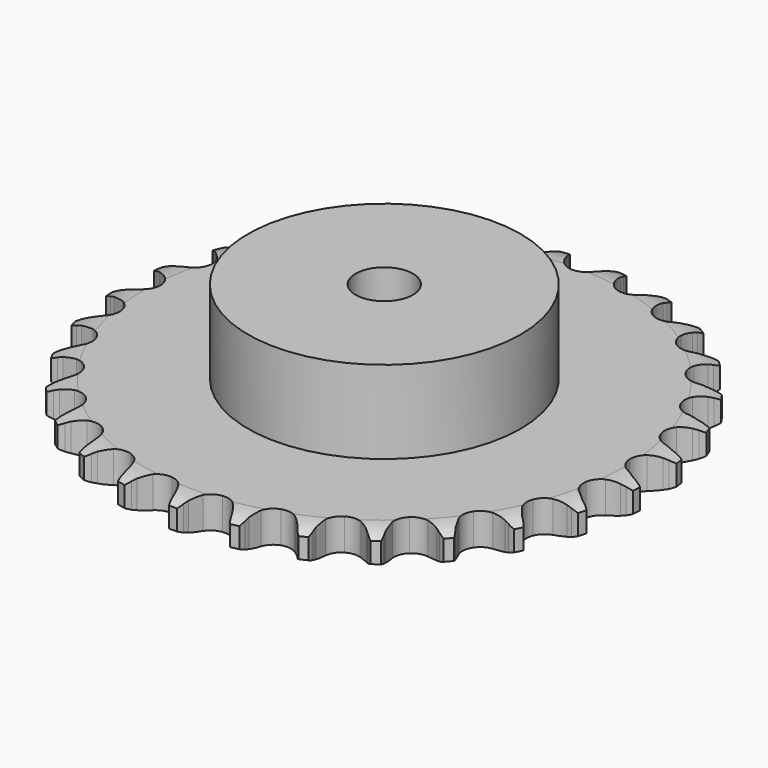
from build123d import *

# Parameters (mm, degrees)
PAD_DEPTH         = 11.1
SKETCH001_R       = 47.5
PAD001_DEPTH      = 40
SKETCH002_R       = 10
POCKET_DEPTH      = 0.001
POCKET_DEPTH_BACK = 40.001


with BuildPart() as part:
    # Sprocket → Pad (new body)
    with BuildSketch(Plane.XY):
        with BuildLine():
            ThreePointArc((-10.17655, 93.571831), (-8.665121, 91.838888), (-7.596306, 89.802925))
            Line((-7.596306, 89.802925), (-7.007926, 88.270144))
            ThreePointArc((-7.007926, 88.270144), (-6.074148, 86.269221), (-4.869867, 84.418452))
            ThreePointArc((-4.869867, 84.418452), (-2.71998, 82.633691), (0, 81.994084))
            ThreePointArc((0, 81.994084), (2.71998, 82.633691), (4.869867, 84.418452))
            ThreePointArc((4.869867, 84.418452), (6.074148, 86.269221), (7.007926, 88.270144))
            Line((7.007926, 88.270144), (7.596306, 89.802925))
            ThreePointArc((7.596306, 89.802925), (8.665121, 91.838888), (10.17655, 93.571831))
            ThreePointArc((10.17655, 93.571831), (11.280111, 91.554491), (11.886266, 89.336364))
            Line((11.886266, 89.336364), (12.131387, 87.712934))
            ThreePointArc((12.131387, 87.712934), (12.613195, 85.558057), (13.391459, 83.491673))
            ThreePointArc((13.391459, 83.491673), (15.107412, 81.286476), (17.626304, 80.077108))
            ThreePointArc((17.626304, 80.077108), (20.420189, 80.117046), (22.903484, 81.397918))
            Line((22.903484, 81.397918), (25.819557, 84.69994))
            ThreePointArc((25.819557, 84.69994), (26.253761, 85.396953), (26.723683, 86.070402))
            ThreePointArc((26.723683, 86.070402), (28.205182, 87.829001), (30.053806, 89.196517))
            ThreePointArc((30.053806, 89.196517), (30.697897, 86.989107), (30.813049, 84.692534))
            Line((30.813049, 84.692534), (30.70345, 83.054365))
            ThreePointArc((30.70345, 83.054365), (30.710759, 80.846293), (31.026616, 78.660916))
            ThreePointArc((31.026616, 78.660916), (32.228399, 76.138397), (34.428422, 74.415815))
            ThreePointArc((34.428422, 74.415815), (37.165573, 73.854216), (39.86616, 74.571308))
            Line((39.86616, 74.571308), (43.423893, 77.169261))
            ThreePointArc((43.423893, 77.169261), (43.997783, 77.756637), (44.60149, 78.313322))
            ThreePointArc((44.60149, 78.313322), (46.426399, 79.712327), (48.525779, 80.650472))
            ThreePointArc((48.525779, 80.650472), (48.680284, 78.35621), (48.299048, 76.088575))
            Line((48.299048, 76.088575), (47.839853, 74.512266))
            ThreePointArc((47.839853, 74.512266), (47.372321, 72.354246), (47.211003, 70.152063))
            ThreePointArc((47.211003, 70.152063), (47.842422, 67.43017), (49.620706, 65.274922))
            ThreePointArc((49.620706, 65.274922), (52.173136, 64.138046), (54.964738, 64.257826))
            Line((54.964738, 64.257826), (58.997777, 66.030233))
            ThreePointArc((58.997777, 66.030233), (59.684518, 66.480508), (60.393782, 66.894398))
            ThreePointArc((60.393782, 66.894398), (62.47677, 67.868394), (64.72874, 68.333301))
            ThreePointArc((64.72874, 68.333301), (64.386435, 66.059463), (63.526638, 63.926799))
            Line((63.526638, 63.926799), (62.739319, 62.486056))
            ThreePointArc((62.739319, 62.486056), (61.818807, 60.478995), (61.187856, 58.362976))
            ThreePointArc((61.187856, 58.362976), (61.219386, 55.568984), (62.49278, 53.081846))
            ThreePointArc((62.49278, 53.081846), (64.741141, 51.422852), (67.493226, 50.93972))
            Line((67.493226, 50.93972), (71.81299, 51.803705))
            ThreePointArc((71.81299, 51.803705), (72.580471, 52.095823), (73.362127, 52.347566))
            ThreePointArc((73.362127, 52.347566), (75.605796, 52.85101), (77.905058, 52.82094))
            ThreePointArc((77.905058, 52.82094), (77.081948, 50.673849), (75.783792, 48.775876))
            Line((75.783792, 48.775876), (74.705164, 47.538068))
            ThreePointArc((74.705164, 47.538068), (73.374714, 45.775814), (72.303632, 43.844902))
            ThreePointArc((72.303632, 43.844902), (71.733799, 41.109453), (72.442761, 38.406721))
            ThreePointArc((72.442761, 38.406721), (74.281923, 36.303183), (76.865806, 35.239729))
            Line((76.865806, 35.239729), (81.270307, 35.154893))
            ThreePointArc((81.270307, 35.154893), (82.082642, 35.275196), (82.90014, 35.35302))
            ThreePointArc((82.90014, 35.35302), (85.19958, 35.362371), (87.438622, 34.838731))
            ThreePointArc((87.438622, 34.838731), (86.173194, 32.918783), (84.497381, 31.344248))
            Line((84.497381, 31.344248), (83.177878, 30.367252))
            ThreePointArc((83.177878, 30.367252), (81.499701, 28.932206), (80.038571, 27.276689))
            ThreePointArc((80.038571, 27.276689), (78.89402, 24.727691), (79.005399, 21.935741))
            ThreePointArc((79.005399, 21.935741), (80.349364, 19.486017), (82.644227, 17.891967))
            Line((82.644227, 17.891967), (86.927516, 16.862277))
            ThreePointArc((86.927516, 16.862277), (87.74672, 16.80514), (88.561835, 16.705407))
            ThreePointArc((88.561835, 16.705407), (90.809525, 16.220228), (92.883653, 15.227502))
            ThreePointArc((92.883653, 15.227502), (91.235078, 13.62447), (89.259966, 12.446998))
            Line((89.259966, 12.446998), (87.761287, 11.776498))
            ThreePointArc((87.761287, 11.776498), (85.813852, 10.735761), (84.030996, 9.433048))
            ThreePointArc((84.030996, 9.433048), (82.365244, 7.189689), (81.873833, 4.43907))
            ThreePointArc((81.873833, 4.43907), (82.659758, 1.757707), (84.558295, -0.292403))
            Line((84.558295, -0.292403), (88.52009, -2.218799))
            ThreePointArc((88.52009, -2.218799), (89.307858, -2.450706), (90.082477, -2.723333))
            ThreePointArc((90.082477, -2.723333), (92.173319, -3.680356), (93.985548, -5.095748))
            ThreePointArc((93.985548, -5.095748), (92.030911, -6.306907), (89.848854, -7.03226))
            Line((89.848854, -7.03226), (88.241076, -7.364912))
            ThreePointArc((88.241076, -7.364912), (86.115443, -7.962677), (84.094224, -8.851671))
            ThreePointArc((84.094224, -8.851671), (81.985161, -10.684495), (80.913937, -13.265167))
            ThreePointArc((80.913937, -13.265167), (81.105074, -16.052792), (82.518511, -18.4631))
            Line((82.518511, -18.4631), (85.973563, -21.196128))
            ThreePointArc((85.973563, -21.196128), (86.693061, -21.591959), (87.390963, -22.024733))
            ThreePointArc((87.390963, -22.024733), (89.22719, -23.40885), (90.692782, -25.180727))
            ThreePointArc((90.692782, -25.180727), (88.523481, -25.943381), (86.23651, -26.182698))
            Line((86.23651, -26.182698), (84.59481, -26.161948))
            ThreePointArc((84.59481, -26.161948), (82.390372, -26.288789), (80.225301, -26.722497))
            ThreePointArc((80.225301, -26.722497), (77.771543, -28.059084), (76.170595, -30.349139))
            ThreePointArc((76.170595, -30.349139), (75.758006, -33.11268), (76.620253, -35.770484))
            Line((76.620253, -35.770484), (79.407008, -39.182349))
            ThreePointArc((79.407008, -39.182349), (80.024592, -39.723597), (80.613144, -40.296281))
            ThreePointArc((80.613144, -40.296281), (82.108897, -42.042773), (83.159324, -44.088283))
            ThreePointArc((83.159324, -44.088283), (80.876791, -44.366771), (78.591842, -44.108861))
            Line((78.591842, -44.108861), (76.992985, -43.735679))
            ThreePointArc((76.992985, -43.735679), (74.812818, -43.385666), (72.605131, -43.343808))
            ThreePointArc((72.605131, -43.343808), (69.921414, -44.121661), (67.865601, -46.014019))
            ThreePointArc((67.865601, -46.014019), (66.868579, -48.624256), (67.139317, -51.405279))
            Line((67.139317, -51.405279), (69.127469, -55.336447))
            ThreePointArc((69.127469, -55.336447), (69.614263, -55.997803), (70.065945, -56.683619))
            ThreePointArc((70.065945, -56.683619), (71.151283, -58.710822), (71.737427, -60.93432))
            ThreePointArc((71.737427, -60.93432), (69.448393, -60.715619), (67.272307, -59.972543))
            Line((67.272307, -59.972543), (65.791053, -59.264379))
            ThreePointArc((65.791053, -59.264379), (63.7371, -58.453878), (61.590026, -57.938411))
            ThreePointArc((61.590026, -57.938411), (58.801838, -58.121158), (56.387287, -59.527335))
            ThreePointArc((56.387287, -59.527335), (54.852451, -61.862216), (54.519022, -64.636421))
            Line((54.519022, -64.636421), (55.615607, -68.903074))
            ThreePointArc((55.615607, -68.903074), (55.948848, -69.653614), (56.242539, -70.420495))
            ThreePointArc((56.242539, -70.420495), (56.866715, -72.633618), (56.961168, -74.931136))
            ThreePointArc((56.961168, -74.931136), (54.772664, -74.225474), (52.807194, -73.031976))
            Line((52.807194, -73.031976), (51.512805, -72.021943))
            ThreePointArc((51.512805, -72.021943), (49.681107, -70.788851), (47.69504, -69.823878))
            ThreePointArc((47.69504, -69.823878), (44.932753, -69.402975), (42.272366, -70.257219))
            ThreePointArc((42.272366, -70.257219), (40.271483, -72.207567), (39.349478, -74.845236))
            Line((39.349478, -74.845236), (39.503221, -79.24787))
            ThreePointArc((39.503221, -79.24787), (39.667327, -80.0525), (39.789295, -80.864586))
            ThreePointArc((39.789295, -80.864586), (39.923122, -83.160147), (39.521469, -85.424255))
            ThreePointArc((39.521469, -85.424255), (37.535827, -84.264627), (35.872875, -82.676515))
            Line((35.872875, -82.676515), (34.825876, -81.41184))
            ThreePointArc((34.825876, -81.41184), (33.30208, -79.813816), (31.569886, -78.444458))
            ThreePointArc((31.569886, -78.444458), (28.962662, -77.439585), (26.180837, -77.701954))
            ThreePointArc((26.180837, -77.701954), (23.807466, -79.176573), (22.339996, -81.55437))
            Line((22.339996, -81.55437), (21.543708, -85.887124))
            ThreePointArc((21.543708, -85.887124), (21.531005, -86.70822), (21.475548, -87.527539))
            ThreePointArc((21.475548, -87.527539), (21.112768, -89.7982), (20.233789, -91.923031))
            ThreePointArc((20.233789, -91.923031), (18.543856, -90.36366), (17.26118, -88.455192))
            Line((17.26118, -88.455192), (16.510527, -86.995011))
            ThreePointArc((16.510527, -86.995011), (15.365884, -85.106776), (13.96856, -83.397062))
            ThreePointArc((13.96856, -83.397062), (11.638309, -81.855207), (8.86512, -81.513431))
            ThreePointArc((8.86512, -81.513431), (6.230238, -82.44337), (4.28592, -84.450113))
            Line((4.28592, -84.450113), (2.576836, -88.510391))
            ThreePointArc((2.576836, -88.510391), (2.387918, -89.309559), (2.157628, -90.097802))
            ThreePointArc((2.157628, -90.097802), (1.315204, -92.237389), (0, -94.123588))
            ThreePointArc((0, -94.123588), (-1.315204, -92.237389), (-2.157628, -90.097802))
            Line((-2.157628, -90.097802), (-2.576836, -88.510391))
            ThreePointArc((-2.576836, -88.510391), (-3.288803, -86.420238), (-4.28592, -84.450113))
            ThreePointArc((-4.28592, -84.450113), (-6.230238, -82.44337), (-8.86512, -81.513431))
            ThreePointArc((-8.86512, -81.513431), (-11.638309, -81.855207), (-13.96856, -83.397062))
            Line((-13.96856, -83.397062), (-16.510527, -86.995011))
            ThreePointArc((-16.510527, -86.995011), (-16.866825, -87.734883), (-17.26118, -88.455192))
            ThreePointArc((-17.26118, -88.455192), (-18.543856, -90.36366), (-20.233789, -91.923031))
            ThreePointArc((-20.233789, -91.923031), (-21.112768, -89.7982), (-21.475548, -87.527539))
            Line((-21.475548, -87.527539), (-21.543708, -85.887124))
            ThreePointArc((-21.543708, -85.887124), (-21.789709, -83.692786), (-22.339996, -81.55437))
            ThreePointArc((-22.339996, -81.55437), (-23.807466, -79.176573), (-26.180837, -77.701954))
            ThreePointArc((-26.180837, -77.701954), (-28.962662, -77.439585), (-31.569886, -78.444458))
            Line((-31.569886, -78.444458), (-34.825876, -81.41184))
            ThreePointArc((-34.825876, -81.41184), (-35.332895, -82.057822), (-35.872875, -82.676515))
            ThreePointArc((-35.872875, -82.676515), (-37.535827, -84.264627), (-39.521469, -85.424255))
            ThreePointArc((-39.521469, -85.424255), (-39.923122, -83.160147), (-39.789295, -80.864586))
            Line((-39.789295, -80.864586), (-39.503221, -79.24787))
            ThreePointArc((-39.503221, -79.24787), (-39.271753, -77.051951), (-39.349478, -74.845236))
            ThreePointArc((-39.349478, -74.845236), (-40.271483, -72.207567), (-42.272366, -70.257219))
            ThreePointArc((-42.272366, -70.257219), (-44.932753, -69.402975), (-47.69504, -69.823878))
            Line((-47.69504, -69.823878), (-51.512805, -72.021943))
            ThreePointArc((-51.512805, -72.021943), (-52.146837, -72.543827), (-52.807194, -73.031976))
            ThreePointArc((-52.807194, -73.031976), (-54.772664, -74.225474), (-56.961168, -74.931136))
            ThreePointArc((-56.961168, -74.931136), (-56.866715, -72.633618), (-56.242539, -70.420495))
            Line((-56.242539, -70.420495), (-55.615607, -68.903074))
            ThreePointArc((-55.615607, -68.903074), (-54.917493, -66.808254), (-54.519022, -64.636421))
            ThreePointArc((-54.519022, -64.636421), (-54.852451, -61.862216), (-56.387287, -59.527335))
            ThreePointArc((-56.387287, -59.527335), (-58.801838, -58.121158), (-61.590026, -57.938411))
            Line((-61.590026, -57.938411), (-65.791053, -59.264379))
            ThreePointArc((-65.791053, -59.264379), (-66.522452, -59.637764), (-67.272307, -59.972543))
            ThreePointArc((-67.272307, -59.972543), (-69.448393, -60.715619), (-71.737427, -60.93432))
            ThreePointArc((-71.737427, -60.93432), (-71.151283, -58.710822), (-70.065945, -56.683619))
            Line((-70.065945, -56.683619), (-69.127469, -55.336447))
            ThreePointArc((-69.127469, -55.336447), (-67.995352, -53.440676), (-67.139317, -51.405279))
            ThreePointArc((-67.139317, -51.405279), (-66.868579, -48.624256), (-67.865601, -46.014019))
            ThreePointArc((-67.865601, -46.014019), (-69.921414, -44.121661), (-72.605131, -43.343808))
            Line((-72.605131, -43.343808), (-76.992985, -43.735679))
            ThreePointArc((-76.992985, -43.735679), (-77.78755, -43.943106), (-78.591842, -44.108861))
            ThreePointArc((-78.591842, -44.108861), (-80.876791, -44.366771), (-83.159324, -44.088283))
            ThreePointArc((-83.159324, -44.088283), (-82.108897, -42.042773), (-80.613144, -40.296281))
            Line((-80.613144, -40.296281), (-79.407008, -39.182349))
            ThreePointArc((-79.407008, -39.182349), (-77.893824, -37.574272), (-76.620253, -35.770484))
            ThreePointArc((-76.620253, -35.770484), (-75.758006, -33.11268), (-76.170595, -30.349139))
            ThreePointArc((-76.170595, -30.349139), (-77.771543, -28.059084), (-80.225301, -26.722497))
            Line((-80.225301, -26.722497), (-84.59481, -26.161948))
            ThreePointArc((-84.59481, -26.161948), (-85.415389, -26.193717), (-86.23651, -26.182698))
            ThreePointArc((-86.23651, -26.182698), (-88.523481, -25.943381), (-90.692782, -25.180727))
            ThreePointArc((-90.692782, -25.180727), (-89.22719, -23.40885), (-87.390963, -22.024733))
            Line((-87.390963, -22.024733), (-85.973563, -21.196128))
            ThreePointArc((-85.973563, -21.196128), (-84.150068, -19.950937), (-82.518511, -18.4631))
            ThreePointArc((-82.518511, -18.4631), (-81.105074, -16.052792), (-80.913937, -13.265167))
            ThreePointArc((-80.913937, -13.265167), (-81.985161, -10.684495), (-84.094224, -8.851671))
            Line((-84.094224, -8.851671), (-88.241076, -7.364912))
            ThreePointArc((-88.241076, -7.364912), (-89.0493, -7.219538), (-89.848854, -7.03226))
            ThreePointArc((-89.848854, -7.03226), (-92.030911, -6.306907), (-93.985548, -5.095748))
            ThreePointArc((-93.985548, -5.095748), (-92.173319, -3.680356), (-90.082477, -2.723333))
            Line((-90.082477, -2.723333), (-88.52009, -2.218799))
            ThreePointArc((-88.52009, -2.218799), (-86.471548, -1.394718), (-84.558295, -0.292403))
            ThreePointArc((-84.558295, -0.292403), (-82.659758, 1.757707), (-81.873833, 4.43907))
            ThreePointArc((-81.873833, 4.43907), (-82.365244, 7.189689), (-84.030996, 9.433048))
            Line((-84.030996, 9.433048), (-87.761287, 11.776498))
            ThreePointArc((-87.761287, 11.776498), (-88.519364, 12.092218), (-89.259966, 12.446998))
            ThreePointArc((-89.259966, 12.446998), (-91.235078, 13.62447), (-92.883653, 15.227502))
            ThreePointArc((-92.883653, 15.227502), (-90.809525, 16.220228), (-88.561835, 16.705407))
            Line((-88.561835, 16.705407), (-86.927516, 16.862277))
            ThreePointArc((-86.927516, 16.862277), (-84.749714, 17.226716), (-82.644227, 17.891967))
            ThreePointArc((-82.644227, 17.891967), (-80.349364, 19.486017), (-79.005399, 21.935741))
            ThreePointArc((-79.005399, 21.935741), (-78.89402, 24.727691), (-80.038571, 27.276689))
            Line((-80.038571, 27.276689), (-83.177878, 30.367252))
            ThreePointArc((-83.177878, 30.367252), (-83.850361, 30.838555), (-84.497381, 31.344248))
            ThreePointArc((-84.497381, 31.344248), (-86.173194, 32.918783), (-87.438622, 34.838731))
            ThreePointArc((-87.438622, 34.838731), (-85.19958, 35.362371), (-82.90014, 35.35302))
            Line((-82.90014, 35.35302), (-81.270307, 35.154893))
            ThreePointArc((-81.270307, 35.154893), (-79.065078, 35.042649), (-76.865806, 35.239729))
            ThreePointArc((-76.865806, 35.239729), (-74.281923, 36.303183), (-72.442761, 38.406721))
            ThreePointArc((-72.442761, 38.406721), (-71.733799, 41.109453), (-72.303632, 43.844902))
            Line((-72.303632, 43.844902), (-74.705164, 47.538068))
            ThreePointArc((-74.705164, 47.538068), (-75.260609, 48.142916), (-75.783792, 48.775876))
            ThreePointArc((-75.783792, 48.775876), (-77.081948, 50.673849), (-77.905058, 52.82094))
            ThreePointArc((-77.905058, 52.82094), (-75.605796, 52.85101), (-73.362127, 52.347566))
            Line((-73.362127, 52.347566), (-71.81299, 51.803705))
            ThreePointArc((-71.81299, 51.803705), (-69.683447, 51.220026), (-67.493226, 50.93972))
            ThreePointArc((-67.493226, 50.93972), (-64.741141, 51.422852), (-62.49278, 53.081846))
            ThreePointArc((-62.49278, 53.081846), (-61.219386, 55.568984), (-61.187856, 58.362976))
            Line((-61.187856, 58.362976), (-62.739319, 62.486056))
            ThreePointArc((-62.739319, 62.486056), (-63.151753, 63.196167), (-63.526638, 63.926799))
            ThreePointArc((-63.526638, 63.926799), (-64.386435, 66.059463), (-64.72874, 68.333301))
            ThreePointArc((-64.72874, 68.333301), (-62.47677, 67.868394), (-60.393782, 66.894398))
            Line((-60.393782, 66.894398), (-58.997777, 66.030233))
            ThreePointArc((-58.997777, 66.030233), (-57.043495, 65.002411), (-54.964738, 64.257826))
            ThreePointArc((-54.964738, 64.257826), (-52.173136, 64.138046), (-49.620706, 65.274922))
            ThreePointArc((-49.620706, 65.274922), (-47.842422, 67.43017), (-47.211003, 70.152063))
            Line((-47.211003, 70.152063), (-47.839853, 74.512266))
            ThreePointArc((-47.839853, 74.512266), (-48.089993, 75.294436), (-48.299048, 76.088575))
            ThreePointArc((-48.299048, 76.088575), (-48.680284, 78.35621), (-48.525779, 80.650472))
            ThreePointArc((-48.525779, 80.650472), (-46.426399, 79.712327), (-44.60149, 78.313322))
            Line((-44.60149, 78.313322), (-43.423893, 77.169261))
            ThreePointArc((-43.423893, 77.169261), (-41.736253, 75.745356), (-39.86616, 74.571308))
            ThreePointArc((-39.86616, 74.571308), (-37.165573, 73.854216), (-34.428422, 74.415815))
            ThreePointArc((-34.428422, 74.415815), (-32.228399, 76.138397), (-31.026616, 78.660916))
            Line((-31.026616, 78.660916), (-30.70345, 83.054365))
            ThreePointArc((-30.70345, 83.054365), (-30.779597, 83.872021), (-30.813049, 84.692534))
            ThreePointArc((-30.813049, 84.692534), (-30.697897, 86.989107), (-30.053806, 89.196517))
            ThreePointArc((-30.053806, 89.196517), (-28.205182, 87.829001), (-26.723683, 86.070402))
            Line((-26.723683, 86.070402), (-25.819557, 84.69994))
            ThreePointArc((-25.819557, 84.69994), (-24.47747, 82.946532), (-22.903484, 81.397918))
            ThreePointArc((-22.903484, 81.397918), (-20.420189, 80.117046), (-17.626304, 80.077108))
            ThreePointArc((-17.626304, 80.077108), (-15.107412, 81.286476), (-13.391459, 83.491673))
            Line((-13.391459, 83.491673), (-12.131387, 87.712934))
            ThreePointArc((-12.131387, 87.712934), (-12.029982, 88.527843), (-11.886266, 89.336364))
            ThreePointArc((-11.886266, 89.336364), (-11.280111, 91.554491), (-10.17655, 93.571831))
        make_face()
    extrude(amount=PAD_DEPTH)

    # Sketch → Groove (revolve, cut)
    with BuildSketch(Plane.XZ):
        with BuildLine():
            Line((83.564719, 0), (92.05, 0))
            Line((100.535281, 0), (92.05, 0))
            Line((100.535281, 11.1), (100.535281, 0))
            Line((92.05, 11.1), (100.535281, 11.1))
            Line((83.564719, 11.1), (92.05, 11.1))
            ThreePointArc((92.05, 9.1), (87.923618, 10.593242), (83.564719, 11.1))
            Line((92.05, 2), (92.05, 9.1))
            ThreePointArc((83.564719, 0), (87.923618, 0.506758), (92.05, 2))
        make_face()
    revolve(axis=Axis((0, 0, 0), (0, 0, 1)), mode=Mode.SUBTRACT)

    # Sketch001 → Pad001 (join)
    with BuildSketch(Plane.XY):
        Circle(SKETCH001_R)
    extrude(amount=PAD001_DEPTH)

    # Sketch002 → Pocket (cut, two sides)
    with BuildSketch(Plane.XY) as pocket_sk:
        Circle(SKETCH002_R)
    extrude(amount=-POCKET_DEPTH, mode=Mode.SUBTRACT)
    extrude(pocket_sk.sketch, amount=POCKET_DEPTH_BACK, mode=Mode.SUBTRACT)


solid = part.part
